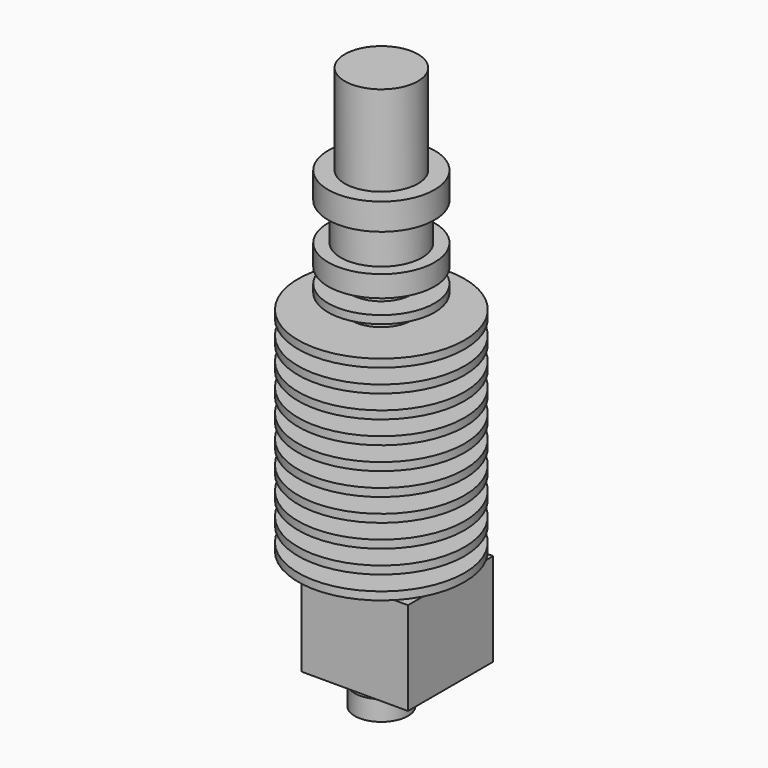
from build123d import *

# Parameters (mm, degrees)
F2_W     = 16
F2_H     = 16
F3_DEPTH = 14


with BuildPart() as f1:
    # F0 (on Front) → F1 (revolve)
    with BuildSketch(Plane.XZ):
        Polygon((3, 0), (12.5, 0), (12.5, 1.2), (4.5, 1.2), (4.5, 3.422222), (12.5, 3.422222), (12.5, 4.622222), (4.5, 4.622222), (4.5, 6.844444), (12.5, 6.844444), (12.5, 8.044444), (4.5, 8.044444), (4.5, 10.266667), (12.5, 10.266667), (12.5, 11.466667), (4.5, 11.466667), (4.5, 13.688889), (12.5, 13.688889), (12.5, 14.888889), (4.5, 14.888889), (4.5, 17.111111), (12.5, 17.111111), (12.5, 18.311111), (4.5, 18.311111), (4.5, 20.533333), (12.5, 20.533333), (12.5, 21.733333), (4.5, 21.733333), (4.5, 23.955556), (12.5, 23.955556), (12.5, 25.155556), (4.5, 25.155556), (4.5, 27.377778), (12.5, 27.377778), (12.5, 28.577778), (4.5, 28.577778), (4.5, 30.8), (12.5, 30.8), (12.5, 32), (4.5, 32), (4.5, 34.222222), (8, 34.222222), (8, 35.422222), (4.5, 35.422222), (4.5, 37.644444), (8, 37.644444), (8, 40.844444), (6.1, 40.844444), (6.1, 46.444444), (8, 46.444444), (8, 50.444444), (5.5, 50.444444), (5.5, 64), (0, 64), (0, -2.5), (3, -2.5), align=None)
    revolve(axis=Axis((0, 0, 40.34683), (0, 0, -1)))

    # F2 (on face) → F3 (join)
    with BuildSketch(Plane(origin=(0, 0, -2.5), x_dir=(1, 0, 0), z_dir=(0, 0, -1))):
        with Locations((0, -3)):
            Rectangle(F2_W, F2_H)
    extrude(amount=F3_DEPTH)

    # F4 (on Front) → F5 (revolve)
    with BuildSketch(Plane.XZ):
        Polygon((0, -16.5), (0, -22.5), (2.5, -20.5), (4, -20.5), (4, -17.5), (2.5, -17.5), (2.5, -16.5), align=None)
    revolve(axis=Axis((0, 0, -19.509592), (0, 0, -1)))


solid = f1.part
